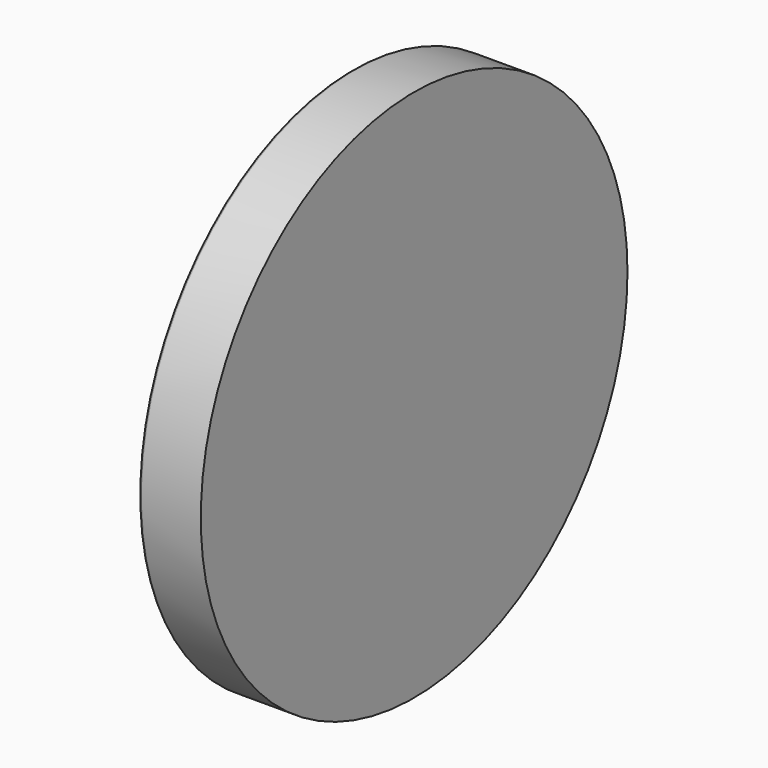
from build123d import *

# Parameters (mm, degrees)
F0_R     = 107.95
F1_DEPTH = 25
F2_T     = -2.5
F3_R     = 1


with BuildPart() as f1:
    # F0 (on Right) → F1 (new body)
    with BuildSketch(Plane.YZ):
        Circle(F0_R)
    extrude(amount=F1_DEPTH)

    # F2
    f2_openings = [f1.faces().sort_by_distance(p)[0] for p in [
        (0, 0, 0),
    ]]
    offset(amount=F2_T, openings=f2_openings)

    # F3
    f3_edges = [f1.edges().sort_by_distance(p)[0] for p in [
        (0, -107.95, 0),
        (0, -105.45, 0),
    ]]
    fillet(f3_edges, radius=F3_R)


solid = f1.part
